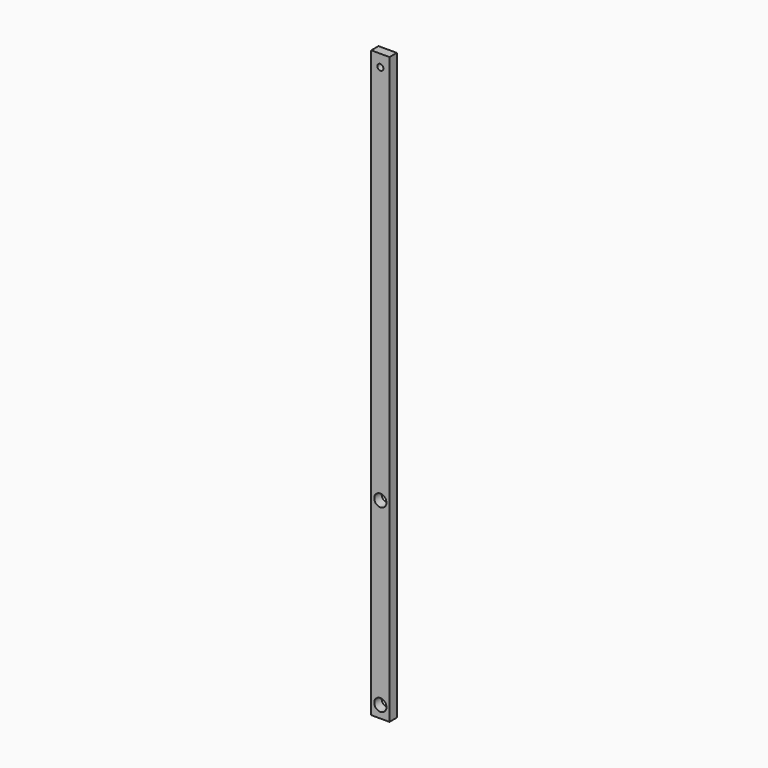
from build123d import *

# Parameters (mm, degrees)
F0_W     = 38.1
F0_H     = 1219.2
F1_DEPTH = 19.05
F2_R     = 12.7
F3_DEPTH = 25
F4_R     = 6.35
F4_R_2   = 12.7
F5_DEPTH = 25


with BuildPart() as f1:
    # F0 (on Front) → F1 (new body)
    with BuildSketch(Plane.XZ):
        with Locations((19.05, 609.6)):
            Rectangle(F0_W, F0_H)
    extrude(amount=F1_DEPTH)

    # F2 (on face) → F3 (cut)
    with BuildSketch(Plane.XZ.offset(19.05)):
        with Locations((19.05, 400)):
            Circle(F2_R)
    extrude(amount=-F3_DEPTH, mode=Mode.SUBTRACT)

    # F4 (on face) → F5 (cut)
    with BuildSketch(Plane.XZ.offset(19.05)):
        with Locations((19.05, 1194.2)):
            Circle(F4_R)
        with Locations((19.05, 25)):
            Circle(F4_R_2)
    extrude(amount=-F5_DEPTH, mode=Mode.SUBTRACT)


solid = f1.part
